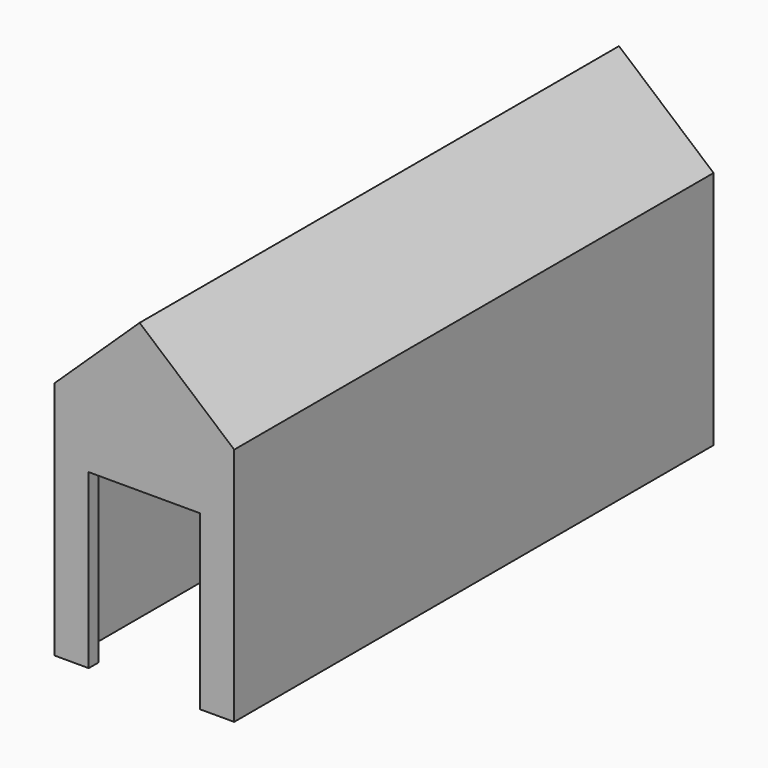
from build123d import *

# Parameters (mm, degrees)
F0_W     = 76.2
F0_H     = 101.6
F1_DEPTH = 254
F3_DEPTH = 254
F4_T     = -5.08
F5_W     = 47.115137
F5_H     = 73.164374
F6_DEPTH = 5.08


with BuildPart() as f1:
    # F0 (on Front) → F1 (new body)
    with BuildSketch(Plane.XZ):
        with Locations((-38.1, 50.8)):
            Rectangle(F0_W, F0_H)
    extrude(amount=F1_DEPTH)

    # F2 (on face) → F3 (join)
    with BuildSketch(Plane.XZ.offset(254)):
        Polygon((-40.087454, 135.909051), (-76.2, 101.6), (0, 101.6), align=None)
    extrude(amount=-F3_DEPTH)

    # F4
    f4_openings = [f1.faces().sort_by_distance(p)[0] for p in [
        (-38.1, -127, 0),
    ]]
    offset(amount=F4_T, openings=f4_openings)

    # F5 (on face) → F6 (cut, through all)
    with BuildSketch(Plane.XZ.offset(254)):
        with Locations((-38.100001, 36.582187)):
            Rectangle(F5_W, F5_H)
    extrude(amount=-F6_DEPTH, mode=Mode.SUBTRACT)


solid = f1.part
